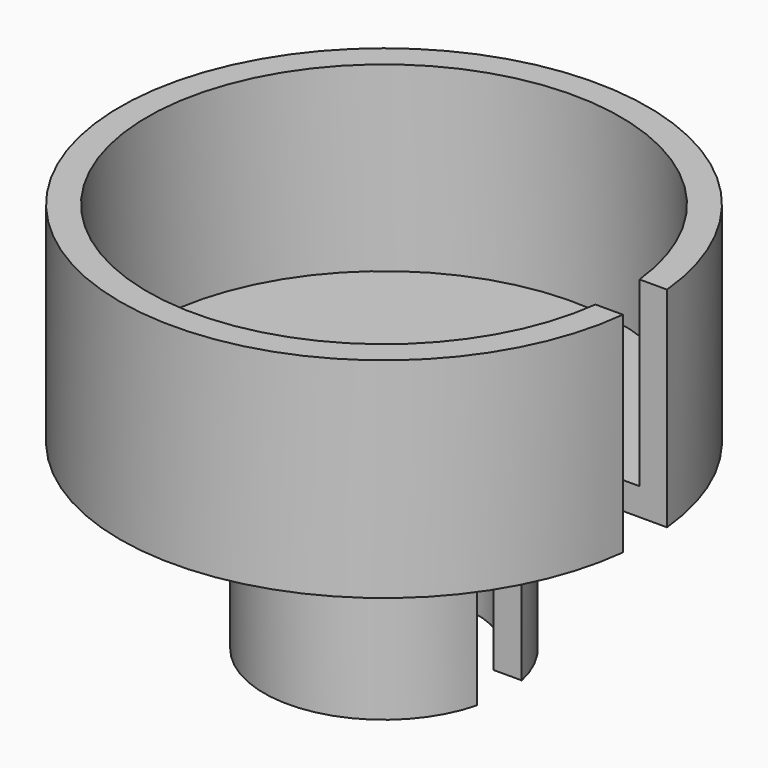
from build123d import *

# Parameters (mm, degrees)
F4_DEPTH = 54.611


with BuildPart() as f2:
    # F0 (on Front) → F2 (revolve)
    with BuildSketch(Plane.XZ):
        Polygon((12.954, -3.81), (12.954, -29.21), (16.764, -29.21), (16.764, -3.81), (36.83, -3.81), (36.83, 25.4), (33.02, 25.4), (33.02, 0), (9.144, 0), (9.144, -3.81), align=None)
    revolve(axis=Axis((0, 0, -9.445624), (0, 0, -1)))

    # F3 (on face) → F4 (cut, through all)
    with BuildSketch(Plane.XY.offset(25.4)):
        Polygon((0, 3.544186), (0, 0), (0, -4.075814), (38.1, -4.075814), (38.1, 3.544186), align=None)
    extrude(amount=-F4_DEPTH, mode=Mode.SUBTRACT)


solid = f2.part
